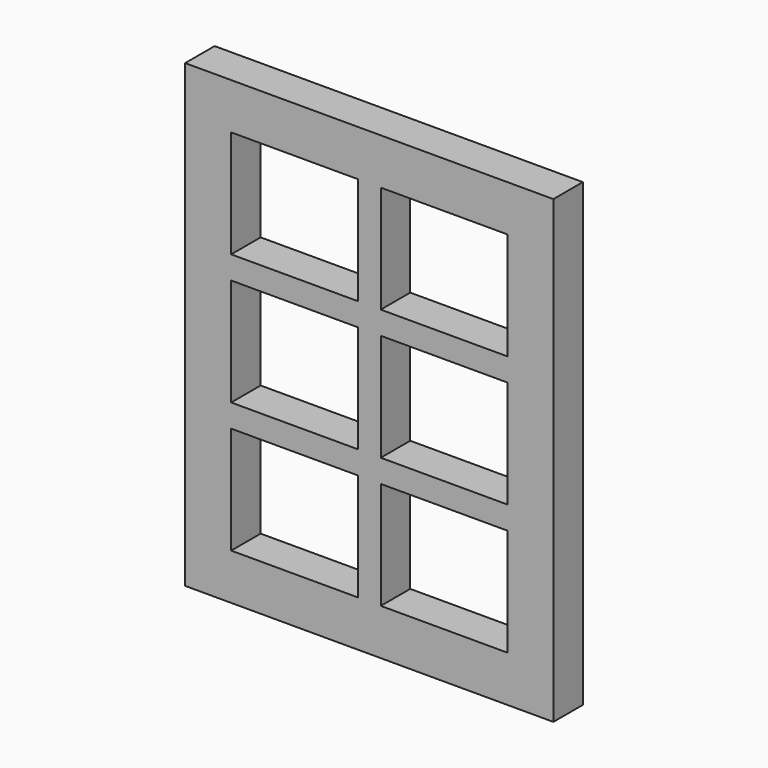
from build123d import *

# Parameters (mm, degrees)
SKETCH_W      = 8
SKETCH_H      = 10
PAD_DEPTH     = 0.8
SKETCH001_W   = 2.75
SKETCH001_H   = 2.333333
SKETCH001_H_2 = 2.333334
POCKET_DEPTH  = 5


with BuildPart() as part:
    # Sketch → Pad (new body)
    with BuildSketch(Plane.XZ):
        Rectangle(SKETCH_W, SKETCH_H)
    extrude(amount=PAD_DEPTH)

    # Sketch001 (on Face6 of Pad) → Pocket (cut)
    with BuildSketch(Plane.XZ.offset(0.8)):
        with Locations((-1.625, 2.833334)):
            Rectangle(SKETCH001_W, SKETCH001_H)
        with Locations((-1.625, 0)):
            Rectangle(SKETCH001_W, SKETCH001_H_2)
        with Locations((-1.625, -2.833334)):
            Rectangle(SKETCH001_W, SKETCH001_H)
        with Locations((1.625, 2.833334)):
            Rectangle(SKETCH001_W, SKETCH001_H)
        with Locations((1.625, 0)):
            Rectangle(SKETCH001_W, SKETCH001_H_2)
        with Locations((1.625, -2.833334)):
            Rectangle(SKETCH001_W, SKETCH001_H)
    extrude(amount=-POCKET_DEPTH, mode=Mode.SUBTRACT)


solid = part.part
